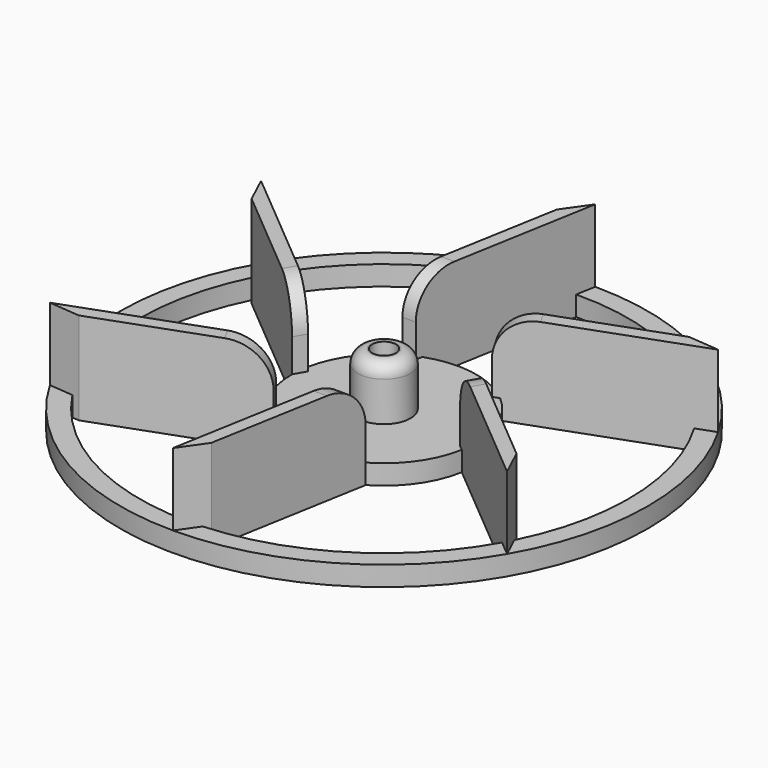
from build123d import *

# Parameters (mm, degrees)
SKETCH_R           = 7
PAD_DEPTH          = 1.5
PAD001_DEPTH       = 7
POLARPATTERN_COUNT = 6
SKETCH002_R        = 20
SKETCH002_R_2      = 18.52462
PAD002_DEPTH       = 1.5
SKETCH003_R        = 2
PAD003_DEPTH       = 4
SKETCH004_R        = 0.9
POCKET_DEPTH       = 10
FILLET_R           = 1
FILLET001_R        = 3


with BuildPart() as part:
    # Sketch → Pad (new body)
    with BuildSketch(Plane.XY):
        Circle(SKETCH_R)
    extrude(amount=PAD_DEPTH)

    # Sketch001 → Pad001 (new body)
    with BuildSketch(Plane(origin=(0, 0, 0), x_dir=(1, 0, 0), z_dir=(0, 0, -1))):
        Polygon((2.454578, 6.079397), (0, 20), (1.357197, 18.061721), (3.470004, 6.079397), align=None)
    pad001 = extrude(amount=-PAD001_DEPTH)

    # PolarPattern: Pad001 ×6 about axis
    polarpattern_axis = Axis((0, 0, 0), (0, 0, -1))
    for i in range(1, POLARPATTERN_COUNT):
        add(pad001.rotate(polarpattern_axis, i * 360 / POLARPATTERN_COUNT))

    # Sketch002 → Pad002 (new body)
    with BuildSketch(Plane(origin=(0, 0, 0), x_dir=(1, 0, 0), z_dir=(0, 0, -1))):
        Circle(SKETCH002_R)
        Circle(SKETCH002_R_2, mode=Mode.SUBTRACT)
    extrude(amount=-PAD002_DEPTH)

    # Sketch003 → Pad003 (new body)
    with BuildSketch(Plane.XY.offset(1.5)):
        Circle(SKETCH003_R)
    extrude(amount=PAD003_DEPTH)

    # Sketch004 → Pocket (cut)
    with BuildSketch(Plane.XY.offset(5.5)):
        Circle(SKETCH004_R)
    extrude(amount=-POCKET_DEPTH, mode=Mode.SUBTRACT)

    # Fillet
    fillet_edges = [part.edges().sort_by_distance(p)[0] for p in [
        (-2, 0, 5.5),
    ]]
    fillet(fillet_edges, radius=FILLET_R)

    # Fillet001
    fillet001_edges = [part.edges().sort_by_distance(p)[0] for p in [
        (2.962291, -6.079397, 7),
        (-3.783767, -5.605118, 7),
        (-6.746058, 0.474279, 7),
        (-2.962291, 6.079397, 7),
        (3.783767, 5.605118, 7),
        (6.746058, -0.474279, 7),
    ]]
    fillet(fillet001_edges, radius=FILLET001_R)


solid = part.part
